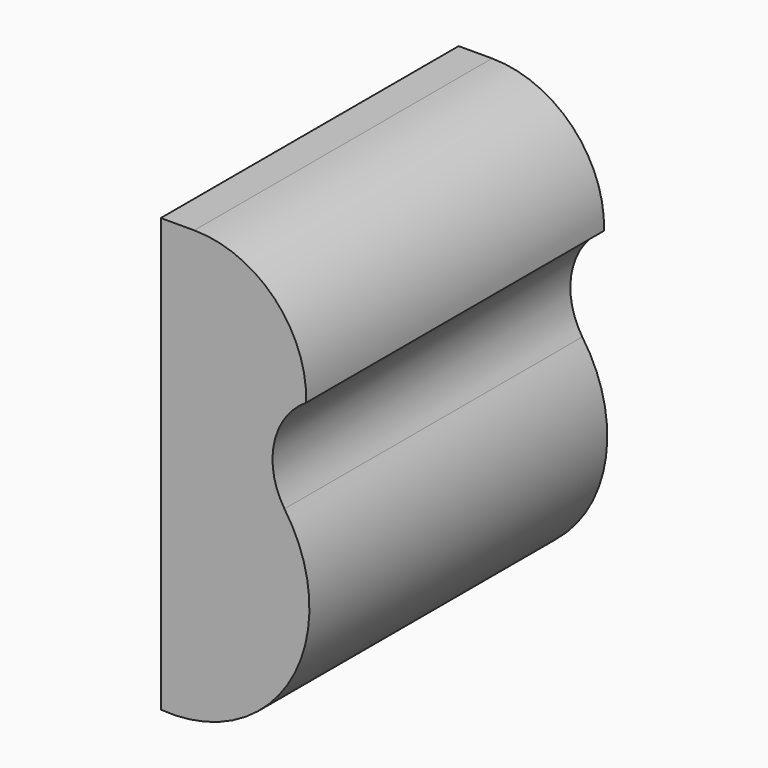
from build123d import *

# Parameters (mm, degrees)
F1_DEPTH = 203.2


with BuildPart() as f1:
    # F0 (on Front) → F1 (new body)
    with BuildSketch(Plane.XZ):
        with BuildLine():
            Line((-60.342863, 98.975755), (-78.595482, 98.975755))
            Line((-78.595482, 98.975755), (-78.595482, -137.244245))
            ThreePointArc((-78.595482, -137.244245), (-7.380595, -99.388032), (-11.104383, -18.822614))
            ThreePointArc((-11.104383, -18.822614), (-16.753261, 11.099402), (0.737776, 36.025302))
            ThreePointArc((0.737776, 36.025302), (-16.486267, 80.421272), (-60.342863, 98.975755))
        make_face()
    extrude(amount=F1_DEPTH)


solid = f1.part
